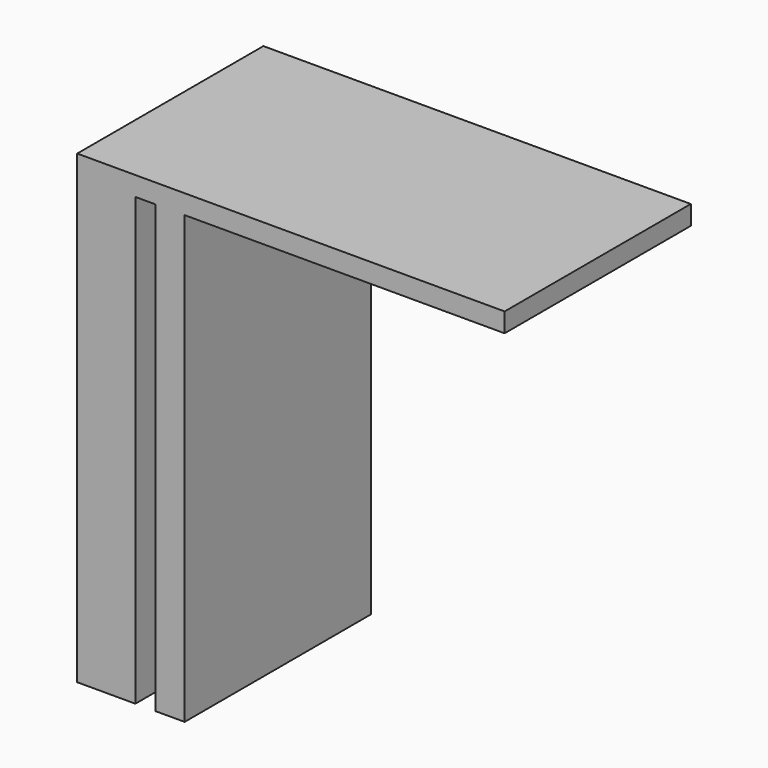
from build123d import *

# Parameters (mm, degrees)
F0_W     = 3.175
F0_H     = 48.696592
F0_W_2   = 2.2
F0_H_2   = 2.103408
F1_DEPTH = 25.4


with BuildPart() as f1:
    # F0 (on Front) → F1 (new body)
    with BuildSketch(Plane.XZ):
        Polygon((-40.354897, 12.814202), (-34.004897, 12.814202), (-34.004897, 61.510794), (-34.004897, 63.614202), (-40.354897, 63.614202), align=None)
        with Locations((-30.217397, 37.162498)):
            Rectangle(F0_W, F0_H)
        with Locations((-32.904897, 62.562498)):
            Rectangle(F0_W_2, F0_H_2)
        Polygon((-31.804897, 63.614202), (-31.804897, 61.510794), (-28.629897, 61.510794), (6.295103, 61.510794), (6.295103, 63.614202), align=None)
    extrude(amount=F1_DEPTH)


solid = f1.part
